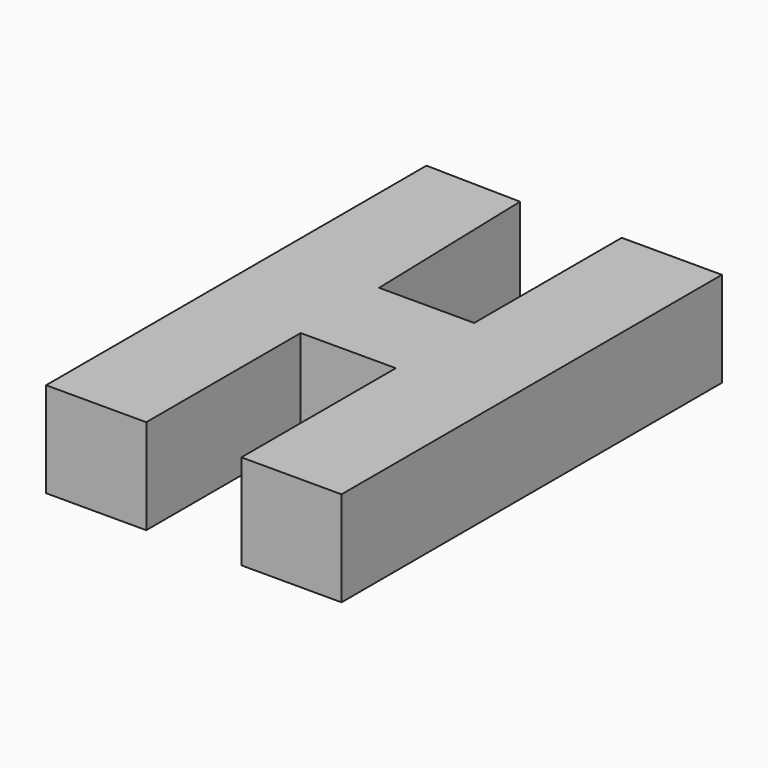
from build123d import *

# Parameters (mm, degrees)
PAD_DEPTH = 10


with BuildPart() as part:
    # Sketch → Pad (new body)
    with BuildSketch(Plane.XY):
        Polygon((0, 50), (0, 0), (10.533848, 0), (10.533848, 20.303028), (20.533848, 20.303028), (20.533848, 0), (31.067695, 0), (31.067695, 50), (20.533848, 50), (20.533848, 30.606062), (10.533848, 30.606062), (10, 49.797981), align=None)
    extrude(amount=PAD_DEPTH)


solid = part.part
